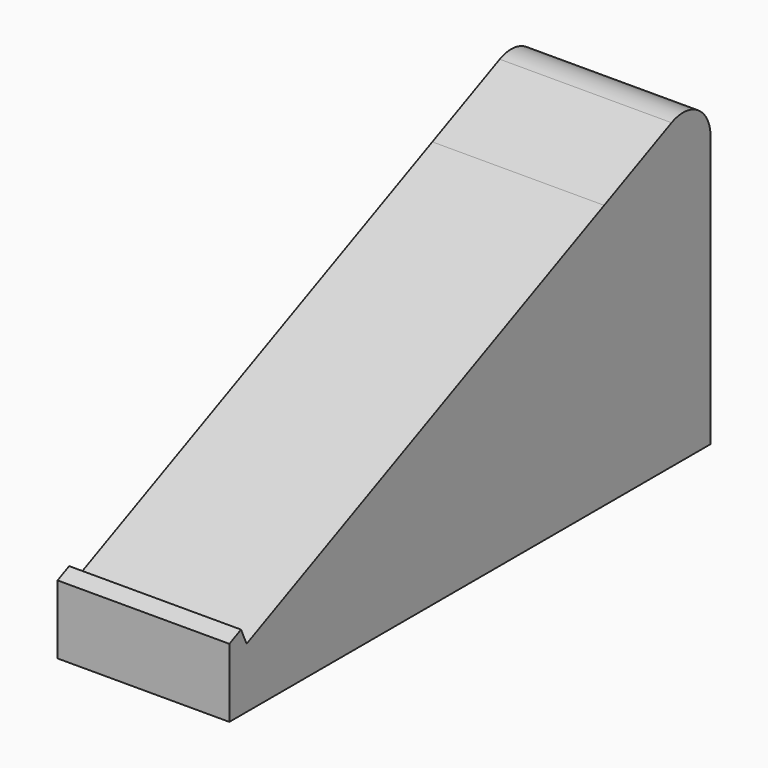
from build123d import *

# Parameters (mm, degrees)
F1_DEPTH = 25.4
F2_R     = 5.08


with BuildPart() as f1:
    # F0 (on Right) → F1 (new body)
    with BuildSketch(Plane.YZ):
        Polygon((-44.45, -15.24), (-44.45, -25.4), (44.45, -25.4), (44.45, 22.65116), (24.805692, 13.670905), (-41.259935, -16.530525), (-42.299335, -14.256839), align=None)
    extrude(amount=F1_DEPTH)

    # F2
    f2_edges = [f1.edges().sort_by_distance(p)[0] for p in [
        (12.7, 44.45, 22.65116),
    ]]
    fillet(f2_edges, radius=F2_R)


solid = f1.part
